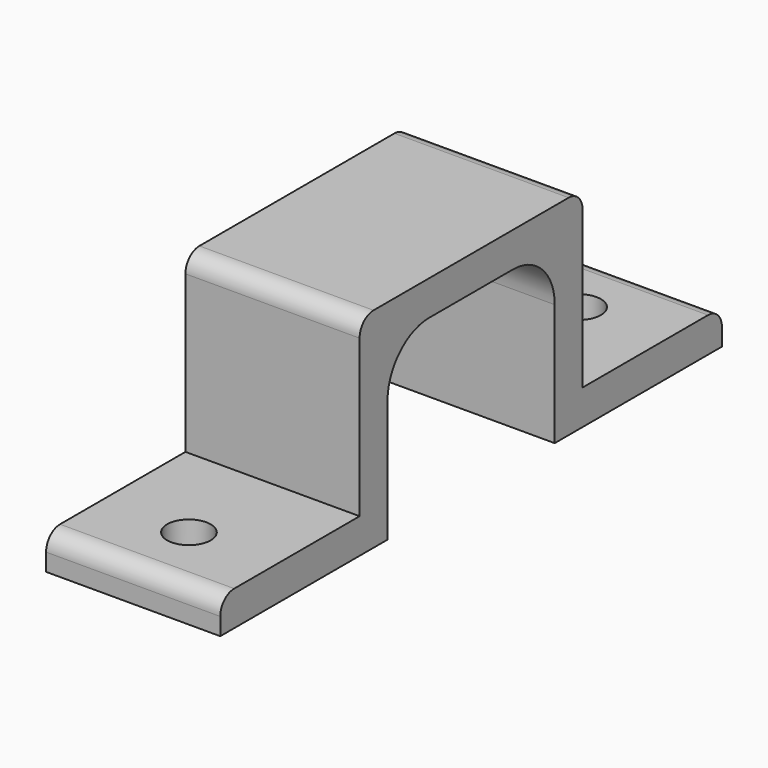
from build123d import *

# Parameters (mm, degrees)
PAD002_DEPTH    = 10
FILLET010_R     = 3
FILLET011_R     = 3
FILLET012_R     = 1
SKETCH002_R     = 1.25
POCKET001_DEPTH = 2.001


with BuildPart() as part:
    # CopyCopySketch004 → Pad002 (new body)
    with BuildSketch(Plane.YZ):
        Polygon((-6, 3), (-6, 13), (6, 13), (6, 3), (18, 3), (18, 5), (8, 5), (8, 15), (-8, 15), (-8, 5), (-18, 5), (-18, 3), align=None)
    extrude(amount=PAD002_DEPTH)

    # Fillet010
    fillet010_edges = [part.edges().sort_by_distance(p)[0] for p in [
        (5, -6, 13),
    ]]
    fillet(fillet010_edges, radius=FILLET010_R)

    # Fillet011
    fillet011_edges = [part.edges().sort_by_distance(p)[0] for p in [
        (5, 6, 13),
    ]]
    fillet(fillet011_edges, radius=FILLET011_R)

    # Fillet012
    fillet012_edges = [part.edges().sort_by_distance(p)[0] for p in [
        (5, 18, 5),
        (5, 8, 15),
        (5, -8, 15),
        (5, -18, 5),
    ]]
    fillet(fillet012_edges, radius=FILLET012_R)

    # Sketch002 (on Face17 of Fillet012) → Pocket001 (cut, through all)
    with BuildSketch(Plane(origin=(0, 0, 5), x_dir=(0, -1, 0), z_dir=(0, 0, 1))):
        with Locations((14, 5)):
            Circle(SKETCH002_R)
        with Locations((-14, 5)):
            Circle(SKETCH002_R)
    extrude(amount=-POCKET001_DEPTH, mode=Mode.SUBTRACT)


with BuildPart() as part_1:
    # Body003 placement: moved
    add(part.part.moved(Location((-54.676946, -34.731148, 0))))


solid = part_1.part
